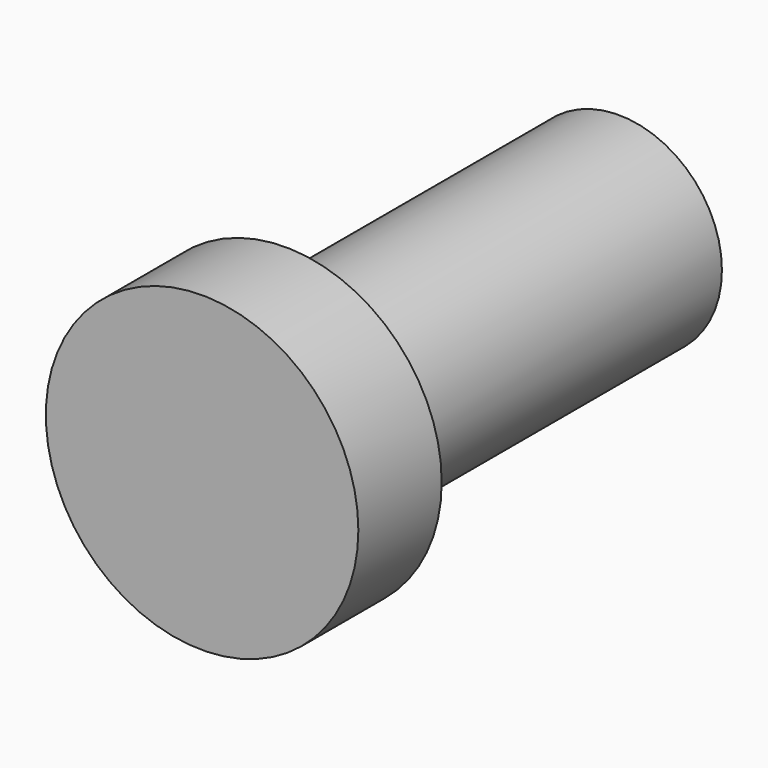
from build123d import *

# Parameters (mm, degrees)
F0_R     = 19.05
F0_R_2   = 12.573
F1_DEPTH = 12.7
F2_DEPTH = 63.5


with BuildPart() as f1:
    # F0 (on Front) → F1 (new body)
    with BuildSketch(Plane.XZ):
        Circle(F0_R)
        Circle(F0_R_2, mode=Mode.SUBTRACT)
        Circle(F0_R_2)
    extrude(amount=-F1_DEPTH)

    # F0 (on Front) → F2 (join)
    with BuildSketch(Plane.XZ):
        Circle(F0_R_2)
    extrude(amount=-F2_DEPTH)

    # F3 (on Right) → F4 (revolve, cut)
    with BuildSketch(Plane.YZ):
        with BuildLine():
            Line((69.85, 0), (69.85, 12.7))
            ThreePointArc((69.85, 12.7), (60.8697438789, 8.9802561211), (57.15, 0))
            Line((57.15, 0), (69.85, 0))
        make_face()
    revolve(axis=Axis((0, 64.3537826836, 0), (0, -1, 0)), mode=Mode.SUBTRACT)


solid = f1.part
